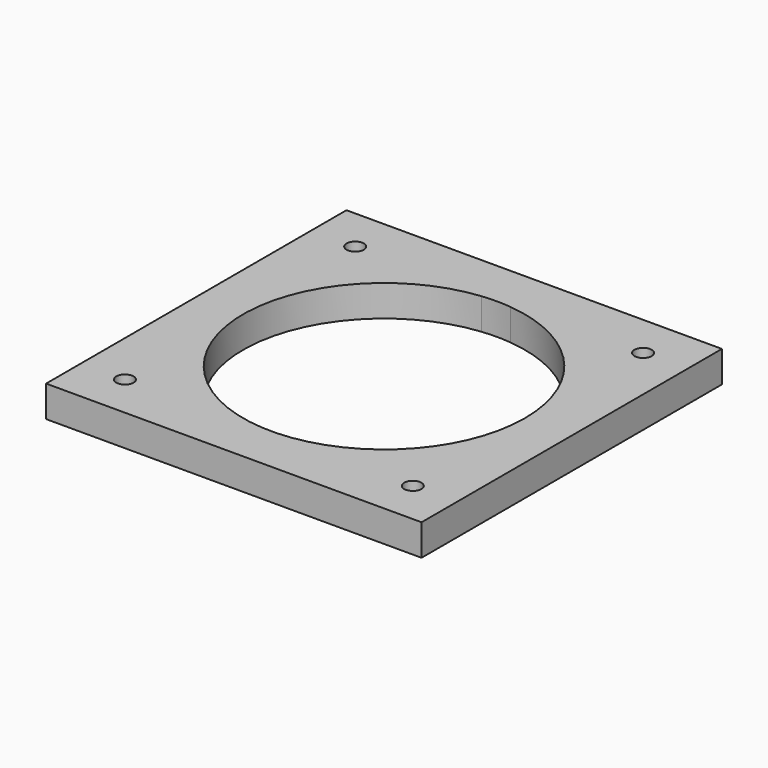
from build123d import *

# Parameters (mm, degrees)
F0_W     = 120
F0_H     = 120
F0_R     = 2.75
F1_DEPTH = 10


with BuildPart() as f1:
    # F0 (on Top) → F1 (new body)
    with BuildSketch(Plane.XY):
        Rectangle(F0_W, F0_H)
        with Locations((-46, -46)):
            Circle(F0_R, mode=Mode.SUBTRACT)
        with Locations((46, -46)):
            Circle(F0_R, mode=Mode.SUBTRACT)
        with Locations((-46, 46)):
            Circle(F0_R, mode=Mode.SUBTRACT)
        with BuildLine():
            ThreePointArc((4.681734, 44.755797), (33.4341, 30.119113), (45, 0))
            ThreePointArc((45, 0), (-30.119113, -33.4341), (-4.681734, 44.755797))
            ThreePointArc((-4.681734, 44.755797), (0, 45), (4.681734, 44.755797))
        make_face(mode=Mode.SUBTRACT)
        with Locations((46, 46)):
            Circle(F0_R, mode=Mode.SUBTRACT)
    extrude(amount=F1_DEPTH)


solid = f1.part
